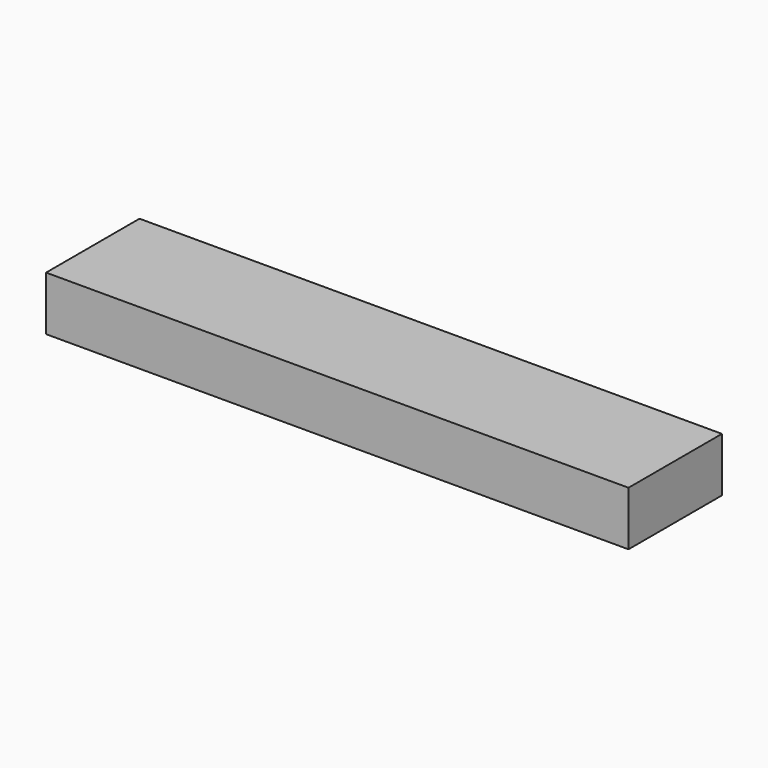
from build123d import *

# Parameters (mm, degrees)
F0_W     = 107.2661541402
F0_H     = 16.4123075083
F1_DEPTH = 7.62
F2_DEPTH = 25.4


with BuildPart() as f1:
    # F0 (on Top) → F1 (new body)
    with BuildSketch(Plane.XY):
        with Locations((4.2496155947, -1.7584613524)):
            Rectangle(F0_W, F0_H)
    extrude(amount=F1_DEPTH)

    # F2 (cut): a face of the model
    f2_faces = [f1.faces().sort_by_distance(p)[0] for p in [
        (57.8826926649, -1.7584613524, 3.81),
    ]]
    extrude(f2_faces, amount=-F2_DEPTH, mode=Mode.SUBTRACT)


solid = f1.part
